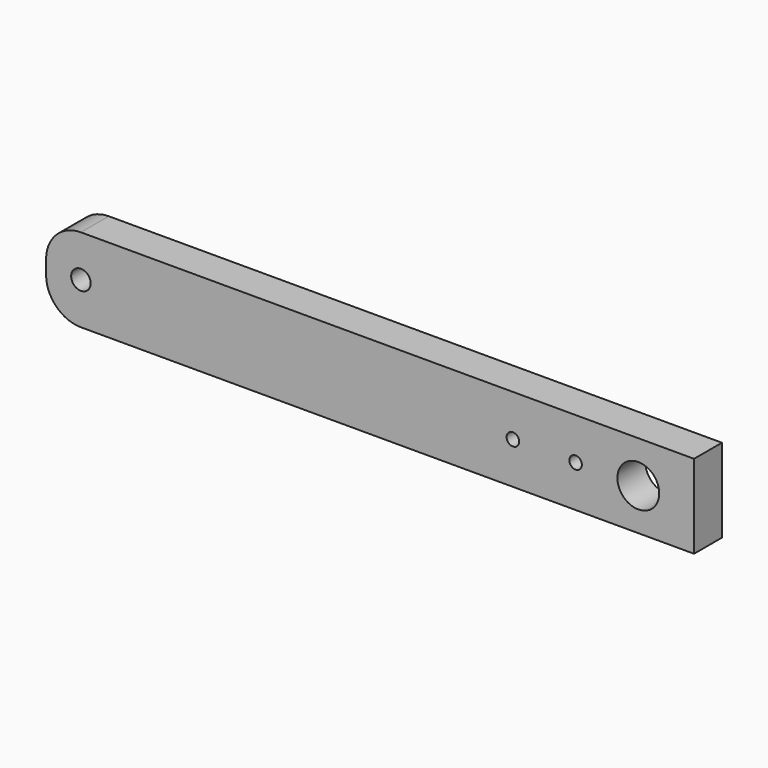
from build123d import *

# Parameters (mm, degrees)
F0_R     = 1.4
F0_R_2   = 0.9
F0_R_3   = 3
F1_DEPTH = 5


with BuildPart() as f1:
    # F0 (on Front) → F1 (new body)
    with BuildSketch(Plane.XZ):
        with BuildLine():
            Line((-80, -6), (-11, -6))
            Line((-11, -6), (8, -6))
            Line((8, -6), (8, 6))
            Line((8, 6), (-11, 6))
            Line((-11, 6), (-80, 6))
            ThreePointArc((-80, 6), (-83.535534, 4.535534), (-85, 1))
            Line((-85, 1), (-85, -1))
            ThreePointArc((-85, -1), (-83.535534, -4.535534), (-80, -6))
        make_face()
        with Locations((-80, 0)):
            Circle(F0_R, mode=Mode.SUBTRACT)
        with Locations((-18, 0)):
            Circle(F0_R_2, mode=Mode.SUBTRACT)
        with Locations((-9, 0)):
            Circle(F0_R_2, mode=Mode.SUBTRACT)
        Circle(F0_R_3, mode=Mode.SUBTRACT)
    extrude(amount=F1_DEPTH)


solid = f1.part
